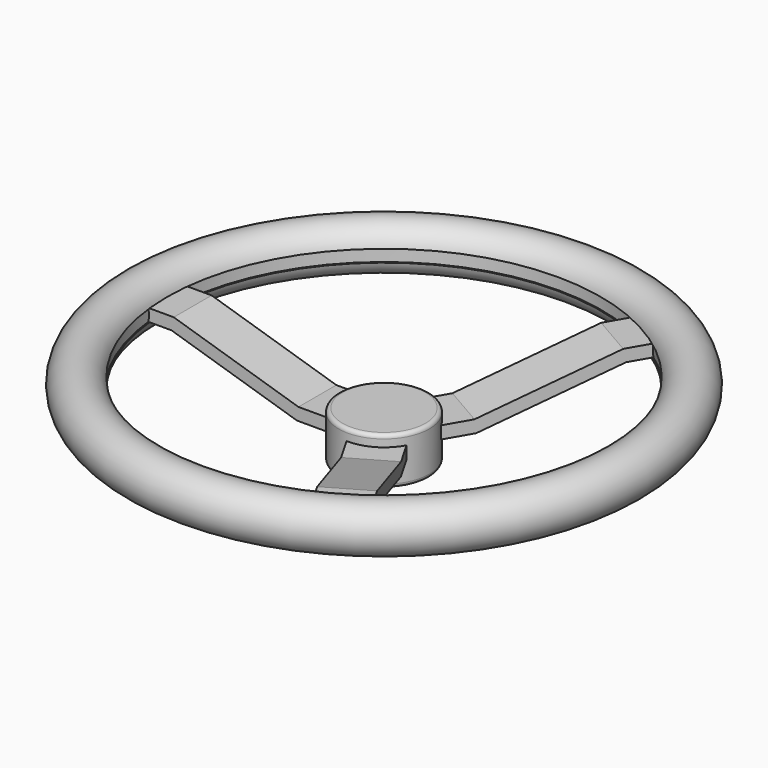
from build123d import *

# Parameters (mm, degrees)
F1_DEPTH = 12.5
F2_COUNT = 3
F2_ANGLE = 240
F4_R     = 23.936349
F5_DEPTH = 12.5
F6_R     = 2


with BuildPart() as f1:
    # F0 (on Front) → F1 (new body, symmetric)
    with BuildSketch(Plane.XZ):
        with BuildLine():
            Line((-35.962325, 0), (-12.526202, 0))
            Line((-12.526202, 0), (-12.930274, 6.596283))
            Line((-12.930274, 6.596283), (-35.176008, 6.596283))
            Line((-35.176008, 6.596283), (-101.017758, 26.870728))
            Line((-101.017758, 26.870728), (-114.514548, 26.870728))
            ThreePointArc((-114.514548, 26.870728), (-114.19529, 25.257263), (-114.088267, 23.616001))
            ThreePointArc((-114.088267, 23.616001), (-114.192334, 21.997468), (-114.502823, 20.405591))
            Line((-114.502823, 20.405591), (-102.229975, 20.405591))
            Line((-102.229975, 20.405591), (-35.962325, 0))
        make_face()
    extrude(amount=F1_DEPTH, both=True)


with BuildPart() as f2_1:
    # F2: instance of F1
    add(f1.part.rotate(Axis((0, 0, -0.426298), (0, 0, -1)), 1 * F2_ANGLE / (F2_COUNT - 1)))


with BuildPart() as f2_2:
    # F2: instance of F1
    add(f1.part.rotate(Axis((0, 0, -0.426298), (0, 0, -1)), 2 * F2_ANGLE / (F2_COUNT - 1)))


with BuildPart() as f3:
    # F0 (on Front) → F3 (revolve)
    with BuildSketch(Plane.XZ):
        with BuildLine():
            ThreePointArc((-114.514548, 26.870728), (-139.364878, 23.593081), (-114.502823, 20.405591))
            Line((-114.502823, 20.405591), (-115.160249, 20.405591))
            Line((-115.160249, 20.405591), (-115.160249, 26.870728))
            Line((-115.160249, 26.870728), (-114.514548, 26.870728))
        make_face()
    revolve(axis=Axis((0, 0, -0.426298), (0, 0, -1)))


with BuildPart() as f5:
    # F4 (on Top) → F5 (new body, symmetric)
    with BuildSketch(Plane.XY):
        Circle(F4_R)
    extrude(amount=F5_DEPTH, both=True)

    # F6
    f6_edges = [f5.edges().sort_by_distance(p)[0] for p in [
        (-23.936349, 0, 12.5),
        (-23.936349, 0, -12.5),
    ]]
    fillet(f6_edges, radius=F6_R)


solid = Compound([f1.part, f2_1.part, f2_2.part, f3.part, f5.part])
